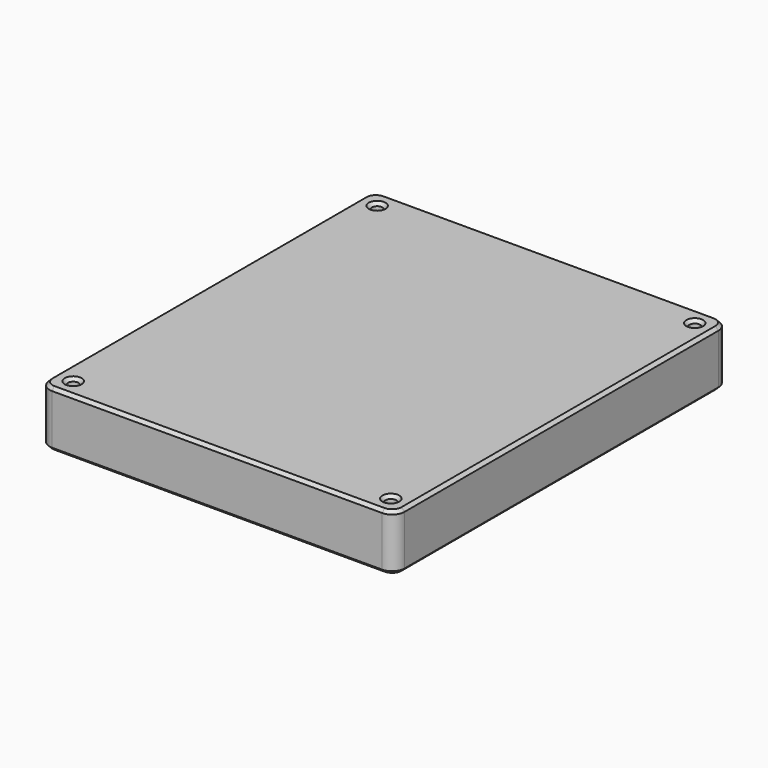
from build123d import *

# Parameters (mm, degrees)
SKETCH005_R      = 1.7
EXTRUDE003_DEPTH = 18
EXTRUDE002_DEPTH = 18
CHAMFER001_SIZE  = 1


with BuildPart() as screw_holes001:
    # Sketch005 → Extrude003 (new body)
    with BuildSketch(Plane.XY):
        with Locations((-51, 61)):
            Circle(SKETCH005_R)
        with Locations((51, 61)):
            Circle(SKETCH005_R)
        with Locations((51, -61)):
            Circle(SKETCH005_R)
        with Locations((-51, -61)):
            Circle(SKETCH005_R)
    extrude(amount=EXTRUDE003_DEPTH)


with BuildPart() as magnet_plate_with_screw_holes001:
    # Sketch004 → Extrude002 (new body)
    with BuildSketch(Plane.XY):
        with BuildLine():
            Line((-57, 63), (-57, -63))
            ThreePointArc((-57, -63), (-55.828427, -65.828427), (-53, -67))
            Line((-53, -67), (53, -67))
            ThreePointArc((53, -67), (55.828427, -65.828427), (57, -63))
            Line((57, -63), (57, 63))
            ThreePointArc((57, 63), (55.828427, 65.828427), (53, 67))
            Line((53, 67), (-53, 67))
            ThreePointArc((-53, 67), (-55.828427, 65.828427), (-57, 63))
        make_face()
    extrude(amount=EXTRUDE002_DEPTH)

    # Cut002: cut screw holes001
    add(screw_holes001.part, mode=Mode.SUBTRACT)

    # Chamfer001
    chamfer001_edges = [magnet_plate_with_screw_holes001.edges().sort_by_distance(p)[0] for p in [
        (0, -67, 0),
        (-52.7, -61, 0),
        (49.3, -61, 0),
        (-52.7, 61, 0),
        (49.3, 61, 0),
        (0, 67, 18),
        (-52.7, -61, 18),
        (49.3, -61, 18),
        (-52.7, 61, 18),
        (49.3, 61, 18),
    ]]
    chamfer(chamfer001_edges, length=CHAMFER001_SIZE)


solid = magnet_plate_with_screw_holes001.part
